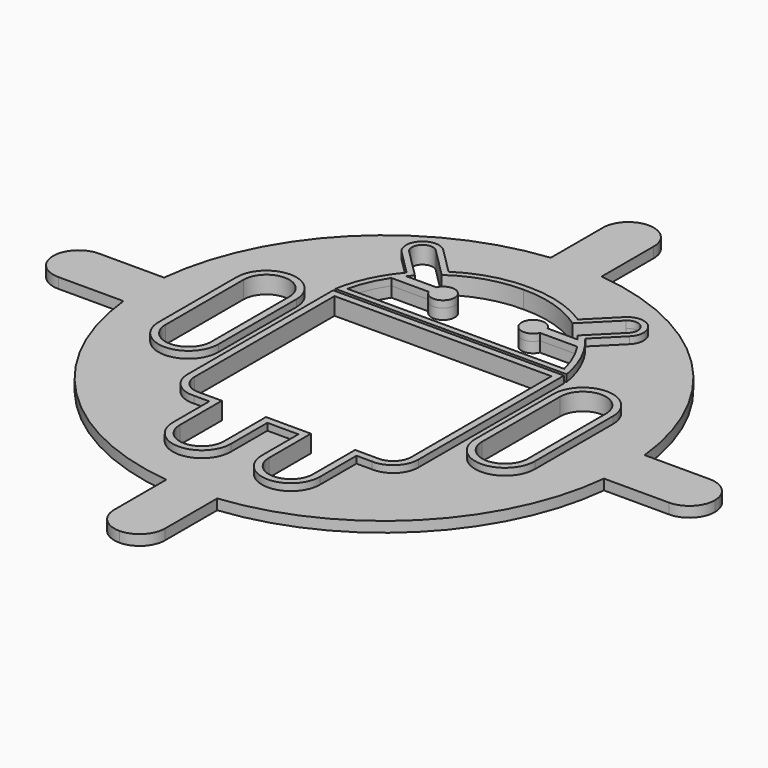
from build123d import *

# Parameters (mm, degrees)
F1_DEPTH = 3
F3_DEPTH = 25
F5_DEPTH = 2
F6_SCALE = 0.8


with BuildPart() as f1:
    # F0 (on Top) → F1 (new body)
    with BuildSketch(Plane.XY):
        with BuildLine():
            ThreePointArc((69.1465082783, -7.3148026297), (69.4358131239, -3.6624855503), (69.532337402, 0))
            ThreePointArc((69.532337402, 0), (69.4358131239, 3.6624855503), (69.1465082783, 7.3148026297))
            ThreePointArc((69.1465082783, 7.3148026297), (49.1667872887, 49.1667872887), (7.3148026297, 69.1465082783))
            ThreePointArc((7.3148026297, 69.1465082783), (0, 69.532337402), (-7.3148026297, 69.1465082783))
            ThreePointArc((-7.3148026297, 69.1465082783), (-49.1667872887, 49.1667872887), (-69.1465082783, 7.3148026297))
            ThreePointArc((-69.1465082783, 7.3148026297), (-69.532337402, 0), (-69.1465082783, -7.3148026297))
            ThreePointArc((-69.1465082783, -7.3148026297), (-49.1667872887, -49.1667872887), (-7.3148026297, -69.1465082783))
            ThreePointArc((-7.3148026297, -69.1465082783), (0, -69.532337402), (7.3148026297, -69.1465082783))
            ThreePointArc((7.3148026297, -69.1465082783), (49.1667872887, -49.1667872887), (69.1465082783, -7.3148026297))
        make_face()
        with BuildLine():
            ThreePointArc((69.1465082783, 7.3148026297), (69.4358131239, 3.6624855503), (69.532337402, 0))
            ThreePointArc((69.532337402, 0), (69.4358131239, -3.6624855503), (69.1465082783, -7.3148026297))
            Line((69.1465082783, -7.3148026297), (87.8831749798, -7.3148026297))
            ThreePointArc((87.8831749798, -7.3148026297), (93.0555215223, -5.1723465425), (95.1979776095, 0))
            ThreePointArc((95.1979776095, 0), (93.0555215223, 5.1723465425), (87.8831749798, 7.3148026297))
            Line((87.8831749798, 7.3148026297), (69.1465082783, 7.3148026297))
        make_face()
        with BuildLine():
            ThreePointArc((-7.3148026297, 69.1465082783), (0, 69.532337402), (7.3148026297, 69.1465082783))
            Line((7.3148026297, 69.1465082783), (7.3148026297, 87.8831749798))
            ThreePointArc((7.3148026297, 87.8831749798), (5.1723465425, 93.0555215223), (0, 95.1979776095))
            ThreePointArc((0, 95.1979776095), (-5.1723465425, 93.0555215223), (-7.3148026297, 87.8831749798))
            Line((-7.3148026297, 87.8831749798), (-7.3148026297, 69.1465082783))
        make_face()
        with BuildLine():
            Line((7.3148026297, -87.8831749798), (7.3148026297, -69.1465082783))
            ThreePointArc((7.3148026297, -69.1465082783), (0, -69.532337402), (-7.3148026297, -69.1465082783))
            Line((-7.3148026297, -69.1465082783), (-7.3148026297, -87.8831749798))
            ThreePointArc((-7.3148026297, -87.8831749798), (-5.1723465425, -93.0555215223), (0, -95.1979776095))
            ThreePointArc((0, -95.1979776095), (5.1723465425, -93.0555215223), (7.3148026297, -87.8831749798))
        make_face()
        with BuildLine():
            ThreePointArc((-69.1465082783, -7.3148026297), (-69.532337402, 0), (-69.1465082783, 7.3148026297))
            Line((-69.1465082783, 7.3148026297), (-87.8831749798, 7.3148026297))
            ThreePointArc((-87.8831749798, 7.3148026297), (-93.0555215223, 5.1723465425), (-95.1979776095, 0))
            ThreePointArc((-95.1979776095, 0), (-93.0555215223, -5.1723465425), (-87.8831749798, -7.3148026297))
            Line((-87.8831749798, -7.3148026297), (-69.1465082783, -7.3148026297))
        make_face()
    extrude(amount=F1_DEPTH)

    # F2 (on face) → F3 (cut)
    with BuildSketch(Plane.XY.offset(3)):
        with BuildLine():
            ThreePointArc((-38.9502607286, 14.6313095465), (-45.5531459302, 21.2341947481), (-52.1560311317, 14.6313095465))
            Line((-52.1560311317, 14.6313095465), (-52.1560311317, -13.3942700922))
            ThreePointArc((-52.1560311317, -13.3942700922), (-45.5531459302, -19.9971552938), (-38.9502607286, -13.3942700922))
            Line((-38.9502607286, -13.3942700922), (-38.9502607286, 14.6313095465))
        make_face()
        with BuildLine():
            Line((0, 21.2101340294), (-31.2078986317, 21.2101340294))
            Line((-31.2078986317, 21.2101340294), (-31.2078986317, -29.1595514864))
            ThreePointArc((-31.2078986317, -29.1595514864), (-29.5536377946, -32.97196325), (-25.6393177885, -34.3680869058))
            Line((-25.6393177885, -34.3680869058), (-19.1715068486, -34.3680869058))
            Line((-19.1715068486, -34.3680869058), (-19.1715068486, -49.4875834141))
            ThreePointArc((-19.1715068486, -49.4875834141), (-12.8196588942, -55.8394313684), (-6.4678109399, -49.4875834141))
            Line((-6.4678109399, -49.4875834141), (-6.4678109399, -34.3680869058))
            Line((-6.4678109399, -34.3680869058), (0, -34.3680869058))
            Line((0, -34.3680869058), (6.4678109399, -34.3680869058))
            Line((6.4678109399, -34.3680869058), (6.4678109399, -49.4875834141))
            ThreePointArc((6.4678109399, -49.4875834141), (12.8196588942, -55.8394313684), (19.1715068486, -49.4875834141))
            Line((19.1715068486, -49.4875834141), (19.1715068486, -34.3680869058))
            Line((19.1715068486, -34.3680869058), (25.6393177885, -34.3680869058))
            ThreePointArc((25.6393177885, -34.3680869058), (29.5536377946, -32.97196325), (31.2078986317, -29.1595514864))
            Line((31.2078986317, -29.1595514864), (31.2078986317, 21.2101340294))
            Line((31.2078986317, 21.2101340294), (0, 21.2101340294))
        make_face()
        with BuildLine():
            ThreePointArc((38.9502607286, -13.3942700922), (45.5531459302, -19.9971552938), (52.1560311317, -13.3942700922))
            Line((52.1560311317, -13.3942700922), (52.1560311317, 14.6313095465))
            ThreePointArc((52.1560311317, 14.6313095465), (45.5531459302, 21.2341947481), (38.9502607286, 14.6313095465))
            Line((38.9502607286, 14.6313095465), (38.9502607286, -13.3942700922))
        make_face()
        with BuildLine():
            ThreePointArc((18.8199247983, 44.2805681259), (9.8819802161, 48.7377457179), (0, 50.1867979765))
            ThreePointArc((0, 50.1867979765), (-9.8819802161, 48.7377457179), (-18.8199247983, 44.2805681259))
            Line((-18.8199247983, 44.2805681259), (-27.3381436975, 52.7987870252))
            ThreePointArc((-27.3381436975, 52.7987870252), (-31.5886529958, 52.7987870252), (-31.5886529958, 48.5482777269))
            Line((-31.5886529958, 48.5482777269), (-23.3639563844, 40.3235811155))
            ThreePointArc((-23.3639563844, 40.3235811155), (-24.0375361692, 39.5906852357), (-24.6877279792, 38.8369633325))
            Line((-24.6877279792, 38.8369633325), (-16.0106173244, 38.8369633325))
            ThreePointArc((-16.0106173244, 38.8369633325), (-9.6142565188, 37.4559091891), (-16.0106173244, 36.0748550456))
            Line((-16.0106173244, 36.0748550456), (-26.7508904588, 36.0748550456))
            ThreePointArc((-26.7508904588, 36.0748550456), (-29.4383336901, 31.1322164007), (-31.2078986317, 25.7917419076))
            Line((-31.2078986317, 25.7917419076), (0, 25.7917419076))
            Line((0, 25.7917419076), (31.2078986317, 25.7917419076))
            ThreePointArc((31.2078986317, 25.7917419076), (29.4383336901, 31.1322164007), (26.7508904588, 36.0748550456))
            Line((26.7508904588, 36.0748550456), (16.0106173244, 36.0748550456))
            ThreePointArc((16.0106173244, 36.0748550456), (9.6142565188, 37.4559091891), (16.0106173244, 38.8369633325))
            Line((16.0106173244, 38.8369633325), (24.6877279792, 38.8369633325))
            ThreePointArc((24.6877279792, 38.8369633325), (24.0375361692, 39.5906852357), (23.3639563844, 40.3235811155))
            Line((23.3639563844, 40.3235811155), (31.5886529958, 48.5482777269))
            ThreePointArc((31.5886529958, 48.5482777269), (31.5886529958, 52.7987870252), (27.3381436975, 52.7987870252))
            Line((27.3381436975, 52.7987870252), (18.8199247983, 44.2805681259))
        make_face()
    extrude(amount=-F3_DEPTH, mode=Mode.SUBTRACT)

    # F4 (on face) → F5 (join)
    with BuildSketch(Plane.XY.offset(3)):
        with BuildLine():
            Line((-36.9502607286, -13.3942700922), (-36.9502607286, 14.6313095465))
            ThreePointArc((-36.9502607286, 14.6313095465), (-45.5531459302, 23.2341947481), (-54.1560311317, 14.6313095465))
            Line((-54.1560311317, 14.6313095465), (-54.1560311317, -13.3942700922))
            ThreePointArc((-54.1560311317, -13.3942700922), (-45.5531459302, -21.9971552938), (-36.9502607286, -13.3942700922))
        make_face()
        with BuildLine():
            ThreePointArc((-38.9502607286, -13.3942700922), (-45.5531459302, -19.9971552938), (-52.1560311317, -13.3942700922))
            Line((-52.1560311317, -13.3942700922), (-52.1560311317, 14.6313095465))
            ThreePointArc((-52.1560311317, 14.6313095465), (-45.5531459302, 21.2341947481), (-38.9502607286, 14.6313095465))
            Line((-38.9502607286, 14.6313095465), (-38.9502607286, -13.3942700922))
        make_face(mode=Mode.SUBTRACT)
        with BuildLine():
            Line((33.2078986317, -29.1595514864), (33.2078986317, 23.2101340294))
            Line((33.2078986317, 23.2101340294), (-33.2078986317, 23.2101340294))
            Line((-33.2078986317, 23.2101340294), (-33.2078986317, -29.1595514864))
            ThreePointArc((-33.2078986317, -29.1595514864), (-30.9461517209, -34.4078767665), (-25.5779123872, -36.3680869058))
            Line((-25.5779123872, -36.3680869058), (-21.1715068486, -36.3680869058))
            Line((-21.1715068486, -36.3680869058), (-21.1715068486, -49.4875834141))
            ThreePointArc((-21.1715068486, -49.4875834141), (-12.8196588942, -57.8394313684), (-4.4678109399, -49.4875834141))
            Line((-4.4678109399, -49.4875834141), (-4.4678109399, -36.3680869058))
            Line((-4.4678109399, -36.3680869058), (4.4678109399, -36.3680869058))
            Line((4.4678109399, -36.3680869058), (4.4678109399, -49.4875834141))
            ThreePointArc((4.4678109399, -49.4875834141), (12.8196588942, -57.8394313684), (21.1715068486, -49.4875834141))
            Line((21.1715068486, -49.4875834141), (21.1715068486, -36.3680869058))
            Line((21.1715068486, -36.3680869058), (25.5779123872, -36.3680869058))
            ThreePointArc((25.5779123872, -36.3680869058), (30.9461517209, -34.4078767665), (33.2078986317, -29.1595514864))
        make_face()
        with BuildLine():
            Line((31.2078986317, 21.2101340294), (31.2078986317, -29.1595514864))
            ThreePointArc((31.2078986317, -29.1595514864), (29.5536377946, -32.97196325), (25.6393177885, -34.3680869058))
            Line((25.6393177885, -34.3680869058), (19.1715068486, -34.3680869058))
            Line((19.1715068486, -34.3680869058), (19.1715068486, -49.4875834141))
            ThreePointArc((19.1715068486, -49.4875834141), (12.8196588942, -55.8394313684), (6.4678109399, -49.4875834141))
            Line((6.4678109399, -49.4875834141), (6.4678109399, -34.3680869058))
            Line((6.4678109399, -34.3680869058), (-6.4678109399, -34.3680869058))
            Line((-6.4678109399, -34.3680869058), (-6.4678109399, -49.4875834141))
            ThreePointArc((-6.4678109399, -49.4875834141), (-12.8196588942, -55.8394313684), (-19.1715068486, -49.4875834141))
            Line((-19.1715068486, -49.4875834141), (-19.1715068486, -34.3680869058))
            Line((-19.1715068486, -34.3680869058), (-25.6393177885, -34.3680869058))
            ThreePointArc((-25.6393177885, -34.3680869058), (-29.5536377946, -32.97196325), (-31.2078986317, -29.1595514864))
            Line((-31.2078986317, -29.1595514864), (-31.2078986317, 21.2101340294))
            Line((-31.2078986317, 21.2101340294), (31.2078986317, 21.2101340294))
        make_face(mode=Mode.SUBTRACT)
        with BuildLine():
            ThreePointArc((54.1560311317, 14.6313095465), (45.5531459302, 23.2341947481), (36.9502607286, 14.6313095465))
            Line((36.9502607286, 14.6313095465), (36.9502607286, -13.3942700922))
            ThreePointArc((36.9502607286, -13.3942700922), (45.5531459302, -21.9971552938), (54.1560311317, -13.3942700922))
            Line((54.1560311317, -13.3942700922), (54.1560311317, 14.6313095465))
        make_face()
        with BuildLine():
            Line((38.9502607286, -13.3942700922), (38.9502607286, 14.6313095465))
            ThreePointArc((38.9502607286, 14.6313095465), (45.5531459302, 21.2341947481), (52.1560311317, 14.6313095465))
            Line((52.1560311317, 14.6313095465), (52.1560311317, -13.3942700922))
            ThreePointArc((52.1560311317, -13.3942700922), (45.5531459302, -19.9971552938), (38.9502607286, -13.3942700922))
        make_face(mode=Mode.SUBTRACT)
        with BuildLine():
            ThreePointArc((-25.707639439, 40.2631011141), (-28.4799020501, 36.5361613442), (-30.7072781513, 32.4600951356))
            ThreePointArc((-30.7072781513, 32.4600951356), (-32.2715668081, 28.3608780057), (-33.284017822, 24.0917419076))
            Line((-33.284017822, 24.0917419076), (33.284017822, 24.0917419076))
            ThreePointArc((33.284017822, 24.0917419076), (32.2715668081, 28.3608780057), (30.7072781513, 32.4600951356))
            ThreePointArc((30.7072781513, 32.4600951356), (28.4799020501, 36.5361613442), (25.707639439, 40.2631011141))
            Line((25.707639439, 40.2631011141), (32.7907345238, 47.3461961989))
            ThreePointArc((32.7907345238, 47.3461961989), (32.7907345238, 54.0008685532), (26.1360621695, 54.0008685532))
            Line((26.1360621695, 54.0008685532), (18.6145214728, 46.4793278565))
            ThreePointArc((18.6145214728, 46.4793278565), (9.708938731, 50.565820618), (0, 51.8869321878))
            ThreePointArc((0, 51.8869321878), (-9.708938731, 50.565820618), (-18.6145214728, 46.4793278565))
            Line((-18.6145214728, 46.4793278565), (-26.1360621695, 54.0008685532))
            ThreePointArc((-26.1360621695, 54.0008685532), (-32.7907345238, 54.0008685532), (-32.7907345238, 47.3461961989))
            Line((-32.7907345238, 47.3461961989), (-25.707639439, 40.2631011141))
        make_face()
        with BuildLine():
            ThreePointArc((16.0106173244, 38.8369633325), (9.6142565188, 37.4559091891), (16.0106173244, 36.0748550456))
            Line((16.0106173244, 36.0748550456), (26.7508904588, 36.0748550456))
            ThreePointArc((26.7508904588, 36.0748550456), (29.4383336901, 31.1322164007), (31.2078986317, 25.7917419076))
            Line((31.2078986317, 25.7917419076), (-31.2078986317, 25.7917419076))
            ThreePointArc((-31.2078986317, 25.7917419076), (-29.4383336901, 31.1322164007), (-26.7508904588, 36.0748550456))
            Line((-26.7508904588, 36.0748550456), (-16.0106173244, 36.0748550456))
            ThreePointArc((-16.0106173244, 36.0748550456), (-9.6142565188, 37.4559091891), (-16.0106173244, 38.8369633325))
            Line((-16.0106173244, 38.8369633325), (-24.6877279792, 38.8369633325))
            ThreePointArc((-24.6877279792, 38.8369633325), (-24.0375361692, 39.5906852357), (-23.3639563844, 40.3235811155))
            Line((-23.3639563844, 40.3235811155), (-31.5886529958, 48.5482777269))
            ThreePointArc((-31.5886529958, 48.5482777269), (-31.5886529958, 52.7987870252), (-27.3381436975, 52.7987870252))
            Line((-27.3381436975, 52.7987870252), (-18.8199247983, 44.2805681259))
            ThreePointArc((-18.8199247983, 44.2805681259), (-9.8819802161, 48.7377457179), (0, 50.1867979765))
            ThreePointArc((0, 50.1867979765), (9.8819802161, 48.7377457179), (18.8199247983, 44.2805681259))
            Line((18.8199247983, 44.2805681259), (27.3381436975, 52.7987870252))
            ThreePointArc((27.3381436975, 52.7987870252), (31.5886529958, 52.7987870252), (31.5886529958, 48.5482777269))
            Line((31.5886529958, 48.5482777269), (23.3639563844, 40.3235811155))
            ThreePointArc((23.3639563844, 40.3235811155), (24.0375361692, 39.5906852357), (24.6877279792, 38.8369633325))
            Line((24.6877279792, 38.8369633325), (16.0106173244, 38.8369633325))
        make_face(mode=Mode.SUBTRACT)
    extrude(amount=F5_DEPTH)


with BuildPart() as f1_1:
    # F6: moved
    add(f1.part.scale(F6_SCALE))


solid = f1_1.part
